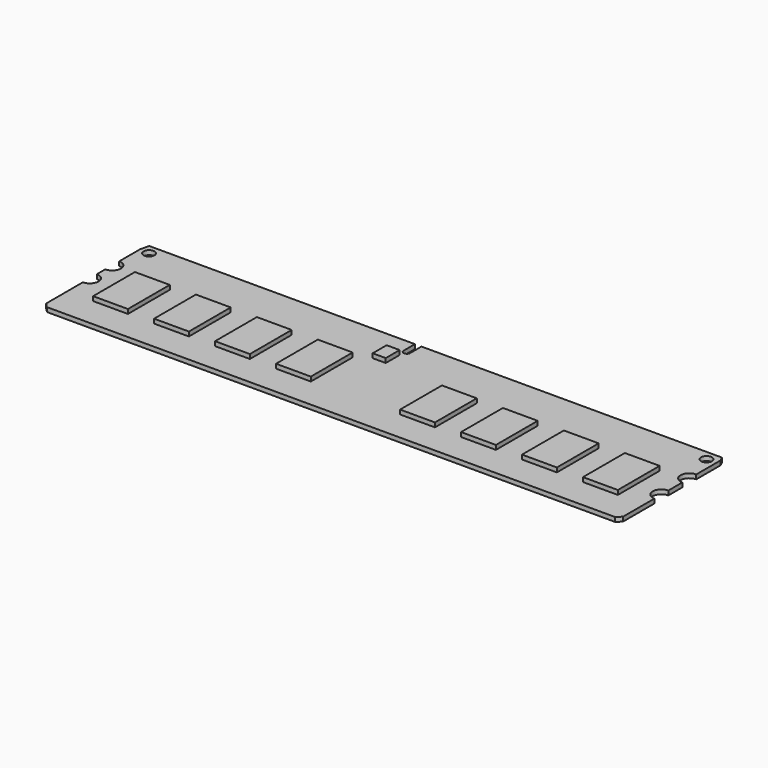
from build123d import *

# Parameters (mm, degrees)
F0_R     = 1.25
F1_DEPTH = 1
F2_W     = 8
F2_H     = 12
F2_W_2   = 3
F2_H_2   = 4
F3_DEPTH = 1


with BuildPart() as f1:
    # F0 (on Top) → F1 (new body)
    with BuildSketch(Plane.XY):
        with BuildLine():
            Line((1.688097, 12), (-59.311903, 12))
            Line((-59.311903, 12), (-59.811903, 10))
            Line((-59.811903, 10), (-59.811903, 4))
            ThreePointArc((-59.811903, 4), (-57.811903, 2), (-59.811903, 0))
            Line((-59.811903, 0), (-59.811903, -2.438973))
            ThreePointArc((-59.811903, -2.438973), (-57.811903, -4.438973), (-59.811903, -6.438973))
            Line((-59.811903, -6.438973), (-59.811903, -17))
            Line((-59.811903, -17), (-58.811903, -18))
            Line((-58.811903, -18), (71.688097, -18))
            Line((71.688097, -18), (72.688097, -17))
            Line((72.688097, -17), (72.688097, -8))
            ThreePointArc((72.688097, -8), (70.688097, -6), (72.688097, -4))
            Line((72.688097, -4), (72.688097, 0))
            ThreePointArc((72.688097, 0), (70.688097, 2), (72.688097, 4))
            Line((72.688097, 4), (72.688097, 11))
            Line((72.688097, 11), (72.188097, 12))
            Line((72.188097, 12), (3.188097, 12))
            Line((3.188097, 12), (3.188097, 8.652266))
            ThreePointArc((3.188097, 8.652266), (2.438097, 8), (1.688097, 8.652266))
            Line((1.688097, 8.652266), (1.688097, 12))
        make_face()
        with Locations((-57.561903, 9.75)):
            Circle(F0_R, mode=Mode.SUBTRACT)
        with Locations((70.438097, 9.75)):
            Circle(F0_R, mode=Mode.SUBTRACT)
    extrude(amount=F1_DEPTH)

    # F2 (on face) → F3 (join)
    with BuildSketch(Plane.XY.offset(1)):
        with Locations((-49.811903, -5)):
            Rectangle(F2_W, F2_H)
        with Locations((-35.811903, -5)):
            Rectangle(F2_W, F2_H)
        with Locations((-21.811903, -5)):
            Rectangle(F2_W, F2_H)
        with Locations((-7.811903, -5)):
            Rectangle(F2_W, F2_H)
        with Locations((62.688097, -5)):
            Rectangle(F2_W, F2_H)
        with Locations((48.688097, -5)):
            Rectangle(F2_W, F2_H)
        with Locations((34.688097, -5)):
            Rectangle(F2_W, F2_H)
        with Locations((20.688097, -5)):
            Rectangle(F2_W, F2_H)
        with Locations((0.688097, 5)):
            Rectangle(F2_W_2, F2_H_2)
    extrude(amount=F3_DEPTH)


solid = f1.part
